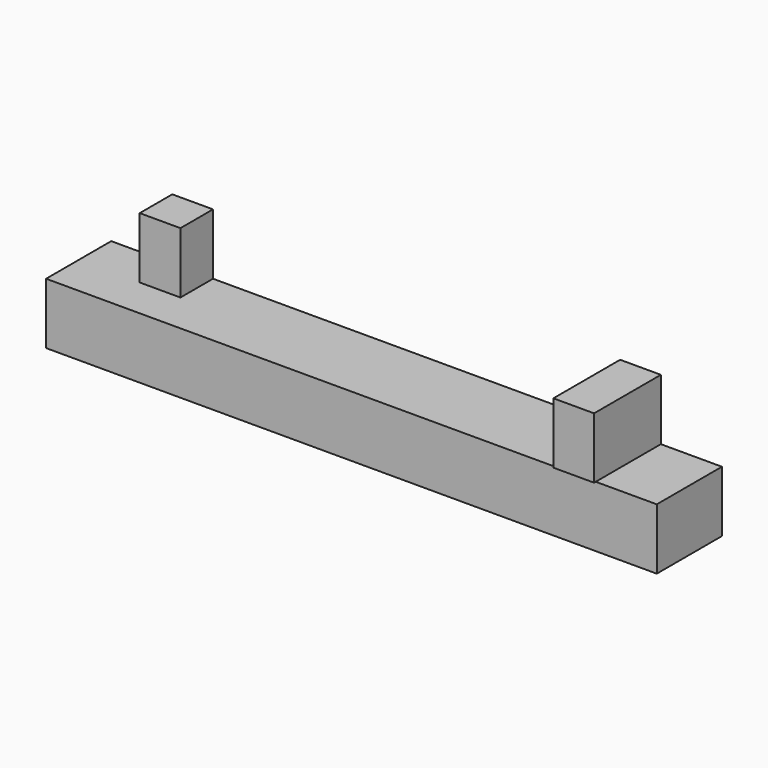
from build123d import *

# Parameters (mm, degrees)
F0_W     = 25.4
F0_H     = 38.1
F1_DEPTH = 50.8
F2_DEPTH = 25.4
F3_W     = 25.4
F3_H     = 38.1
F4_DEPTH = 1.27


with BuildPart() as f1:
    # F0 (on Front) → F1 (new body)
    with BuildSketch(Plane.XZ):
        Polygon((-50.914204, 38.1), (-89.014204, 38.1), (-89.014204, 0), (291.985796, 0), (291.985796, 38.1), (253.885796, 38.1), (228.485796, 38.1), (-25.514204, 38.1), align=None)
        with Locations((241.185796, 57.15)):
            Rectangle(F0_W, F0_H)
    extrude(amount=F1_DEPTH)

    # F0 (on Front) → F2 (join)
    with BuildSketch(Plane.XZ):
        with Locations((-38.214204, 57.15)):
            Rectangle(F0_W, F0_H)
    extrude(amount=F2_DEPTH)

    # F3 (on face) → F4 (join)
    with BuildSketch(Plane.XZ.offset(50.8)):
        with Locations((241.185796, 57.15)):
            Rectangle(F3_W, F3_H)
    extrude(amount=F4_DEPTH)


solid = f1.part
